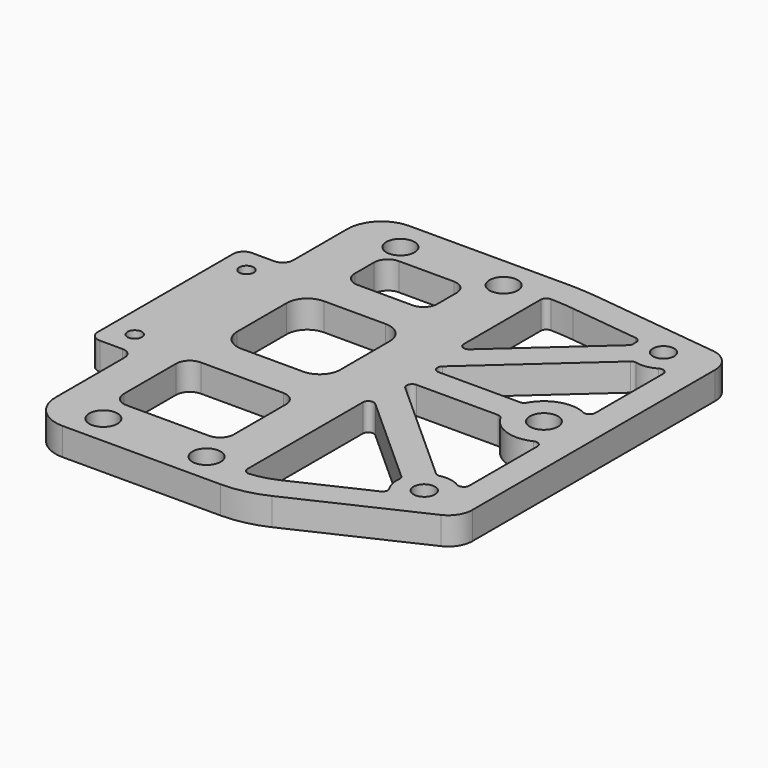
from build123d import *

# Parameters (mm, degrees)
SKETCH155_R     = 1.55
SKETCH155_R_2   = 2.05
SKETCH155_R_3   = 1.05
PAD061_DEPTH    = 4
POCKET077_DEPTH = 4.001
POCKET078_DEPTH = 4.001
FILLET005_R     = 0.8


with BuildPart() as part:
    # Sketch155 → Pad061 (new body)
    with BuildSketch(Plane.XY):
        with BuildLine():
            Line((-22, 28), (-45, 28))
            ThreePointArc((-45, 28), (-48.535534, 26.535534), (-50, 23))
            Line((-50, 23), (-50, 13.15))
            ThreePointArc((-51.5, 11.65), (-50.43934, 12.08934), (-50, 13.15))
            Line((-51.5, 11.65), (-54.8, 11.65))
            ThreePointArc((-54.8, 11.65), (-55.86066, 11.21066), (-56.3, 10.15))
            Line((-56.3, 10.15), (-56.3, -14.47))
            ThreePointArc((-56.3, -14.47), (-55.86066, -15.53066), (-54.8, -15.97))
            Line((-51.5, -15.97), (-54.8, -15.97))
            ThreePointArc((-50, -17.47), (-50.43934, -16.40934), (-51.5, -15.97))
            Line((-50, -17.47), (-50, -30))
            ThreePointArc((-50, -30), (-48.535534, -33.535534), (-45, -35))
            Line((-45, -35), (-22, -35))
            ThreePointArc((-22, -35), (-18.751973, -34.644122), (-15.658065, -33.593376))
            Line((-15.658065, -33.593376), (2.229785, -25.247871))
            ThreePointArc((2.229785, -25.247871), (3.702054, -23.956343), (4.25, -22.076084))
            Line((4.25, 22.076084), (4.25, -22.076084))
            ThreePointArc((4.25, 22.076084), (3.365413, 24.401942), (1.158791, 25.552129))
            Line((-17.328103, 27.72623), (1.158791, 25.552129))
            ThreePointArc((-17.328103, 27.72623), (-19.660044, 27.931499), (-22, 28))
        make_face()
        with Locations((-3, 21.75)):
            Circle(SKETCH155_R, mode=Mode.SUBTRACT)
        with Locations((-3, -21.75)):
            Circle(SKETCH155_R, mode=Mode.SUBTRACT)
        with Locations((-3, 0)):
            Circle(SKETCH155_R_2, mode=Mode.SUBTRACT)
        with Locations((-42.5, -30.7)):
            Circle(SKETCH155_R_2, mode=Mode.SUBTRACT)
        with Locations((-27.5, -30.7)):
            Circle(SKETCH155_R_2, mode=Mode.SUBTRACT)
        with Locations((-42.5, 23.3)):
            Circle(SKETCH155_R_2, mode=Mode.SUBTRACT)
        with Locations((-27.5, 23.3)):
            Circle(SKETCH155_R_2, mode=Mode.SUBTRACT)
        with Locations((-52.65, 8)):
            Circle(SKETCH155_R_3, mode=Mode.SUBTRACT)
        with Locations((-52.65, -12.32)):
            Circle(SKETCH155_R_3, mode=Mode.SUBTRACT)
    extrude(amount=PAD061_DEPTH)

    # Sketch156 (on Face31 of Pad061) → Pocket077 (cut, through all)
    with BuildSketch(Plane.XY.offset(4)):
        with BuildLine():
            Line((-42.5, -26.5), (-30.5, -26.5))
            ThreePointArc((-30.5, -26.5), (-29.085786, -25.914214), (-28.5, -24.5))
            Line((-28.5, -24.5), (-28.5, -15))
            ThreePointArc((-28.5, -15), (-29.085786, -13.585786), (-30.5, -13))
            Line((-30.5, -13), (-42.5, -13))
            ThreePointArc((-42.5, -13), (-43.914214, -13.585786), (-44.5, -15))
            Line((-44.5, -15), (-44.5, -24.5))
            ThreePointArc((-44.5, -24.5), (-43.914214, -25.914214), (-42.5, -26.5))
        make_face()
        with BuildLine():
            Line((-41, -7.5), (-32, -7.5))
            ThreePointArc((-32, -7.5), (-29.87868, -6.62132), (-29, -4.5))
            Line((-29, -4.5), (-29, 4.5))
            ThreePointArc((-29, 4.5), (-29.87868, 6.62132), (-32, 7.5))
            Line((-32, 7.5), (-41, 7.5))
            ThreePointArc((-41, 7.5), (-43.12132, 6.62132), (-44, 4.5))
            Line((-44, 4.5), (-44, -4.5))
            ThreePointArc((-44, -4.5), (-43.12132, -6.62132), (-41, -7.5))
        make_face()
        with BuildLine():
            Line((-40.5, 13), (-32.5, 13))
            ThreePointArc((-32.5, 13), (-31.085786, 13.585786), (-30.5, 15))
            Line((-30.5, 15), (-30.5, 18.5))
            ThreePointArc((-30.5, 18.5), (-31.085786, 19.914214), (-32.5, 20.5))
            Line((-32.5, 20.5), (-40.5, 20.5))
            ThreePointArc((-40.5, 20.5), (-41.914214, 19.914214), (-42.5, 18.5))
            Line((-42.5, 18.5), (-42.5, 15))
            ThreePointArc((-42.5, 15), (-41.914214, 13.585786), (-40.5, 13))
        make_face()
    extrude(amount=-POCKET077_DEPTH, mode=Mode.SUBTRACT)

    # Sketch157 (on Face5 of Pocket077) → Pocket078 (cut, through all)
    with BuildSketch(Plane.XY.offset(4)):
        with BuildLine():
            ThreePointArc((-7.582576, -2), (-4.119662, -4.873023), (0.25, -3.799671))
            Line((0.25, -3.799671), (0.25, -19.418155))
            ThreePointArc((0.25, -19.418155), (-1.755149, -17.948639), (-4.241129, -17.947422))
            Line((-4.241129, -17.947422), (-22, -2))
            Line((-22, -2), (-7.582576, -2))
        make_face()
        with BuildLine():
            ThreePointArc((-6.93352, 22.476238), (-6.999674, 21.698928), (-6.913694, 20.92356))
            Line((-22, 7.376095), (-6.913694, 20.92356))
            Line((-22, 24), (-22, 7.376095))
            ThreePointArc((-17.795293, 23.753607), (-19.89404, 23.938349), (-22, 24))
            Line((-6.93352, 22.476238), (-17.795293, 23.753607))
        make_face()
        with BuildLine():
            Line((0.25, 19.418155), (0.25, 3.799671))
            ThreePointArc((0.25, 3.799671), (-4.119662, 4.873023), (-7.582576, 2))
            Line((-22, 2), (-7.582576, 2))
            Line((-4.241129, 17.947422), (-22, 2))
            ThreePointArc((-4.241129, 17.947422), (-1.755149, 17.948639), (0.25, 19.418155))
        make_face()
        with BuildLine():
            Line((-17.349248, -29.968476), (-5.818135, -24.588681))
            ThreePointArc((-6.913694, -20.92356), (-6.832448, -22.895575), (-5.818135, -24.588681))
            Line((-6.913694, -20.92356), (-22, -7.376095))
            Line((-22, -7.376095), (-22, -31))
            ThreePointArc((-22, -31), (-19.618113, -30.739023), (-17.349248, -29.968476))
        make_face()
    extrude(amount=-POCKET078_DEPTH, mode=Mode.SUBTRACT)

    # Fillet005
    fillet005_edges = [part.edges().sort_by_distance(p)[0] for p in [
        (-22, -7.376095, 2),
        (-22, -2, 2),
        (-6.913694, -20.92356, 2),
        (-5.818135, -24.588681, 2),
        (-22, -31, 2),
        (-22, 2, 2),
        (-4.241129, 17.947422, 2),
        (0.25, 19.418155, 2),
        (-7.582576, 2, 2),
        (0.25, 3.799671, 2),
        (-22, 7.376095, 2),
        (-22, 24, 2),
        (-6.93352, 22.476238, 2),
        (-6.913694, 20.92356, 2),
        (0.25, -3.799671, 2),
        (-7.582576, -2, 2),
        (-4.241129, -17.947422, 2),
        (0.25, -19.418155, 2),
    ]]
    fillet(fillet005_edges, radius=FILLET005_R)


with BuildPart() as part_1:
    # Body023 placement: moved
    add(part.part.moved(Location((0, 0, 8.1))))


solid = part_1.part
